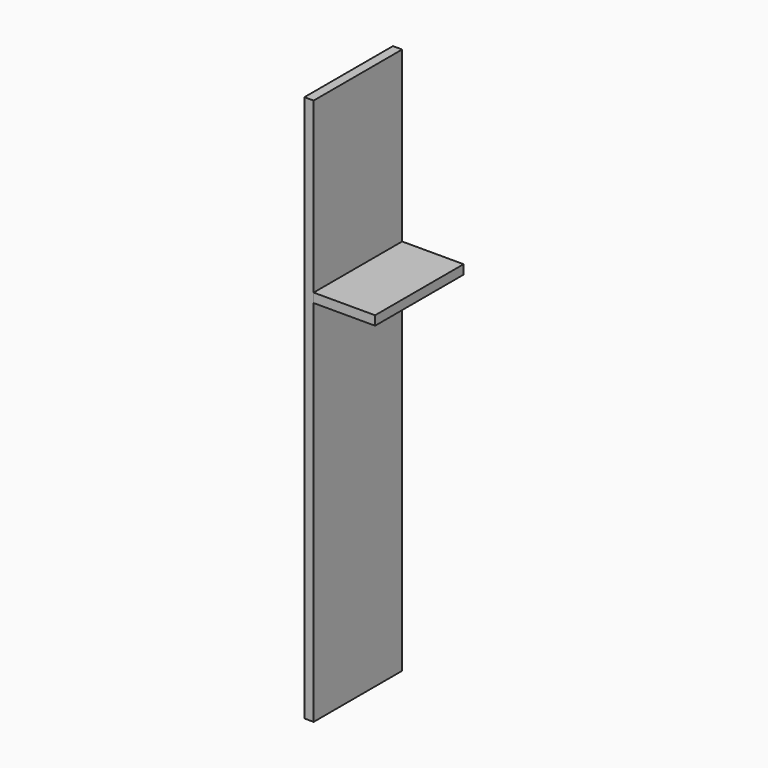
from build123d import *

# Parameters (mm, degrees)
F1_DEPTH = 180
F0_W     = 100
F0_H     = 15
F2_DEPTH = 180


with BuildPart() as f1:
    # F0 (on Front) → F1 (new body)
    with BuildSketch(Plane.XZ):
        Polygon((15, 290), (0, 290), (0, 0), (0, -600), (15, -600), (15, 0), (15, 15), align=None)
    extrude(amount=-F1_DEPTH)


with BuildPart() as f2:
    # F0 (on Front) → F2 (new body)
    with BuildSketch(Plane.XZ):
        with Locations((65, 7.5)):
            Rectangle(F0_W, F0_H)
    extrude(amount=-F2_DEPTH)


solid = Compound([f1.part, f2.part])
